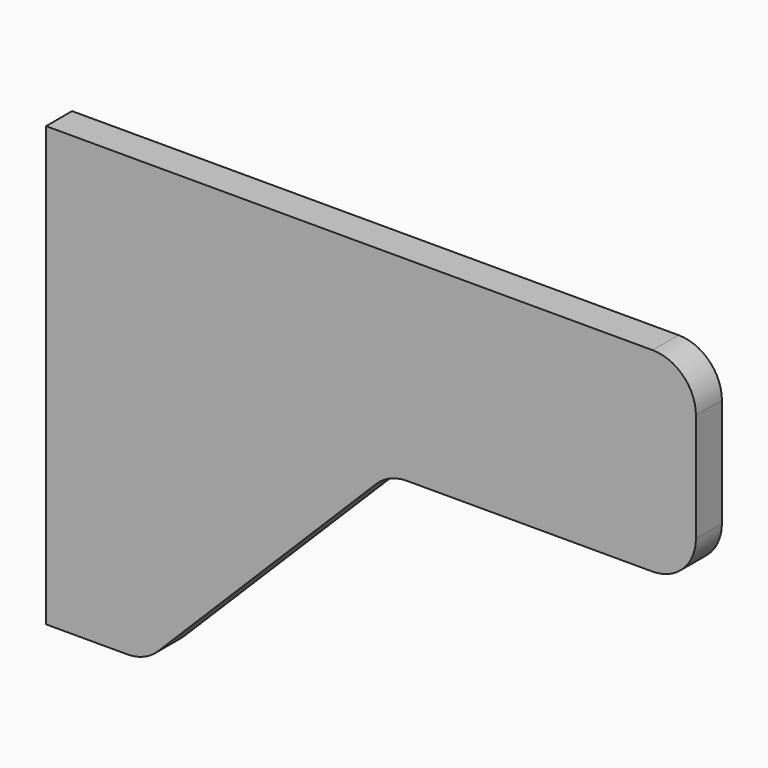
from build123d import *

# Parameters (mm, degrees)
F1_DEPTH = 6


with BuildPart() as f1:
    # F0 (on Front) → F1 (new body)
    with BuildSketch(Plane.XZ):
        with BuildLine():
            ThreePointArc((15, -81), (18.061467, -80.391036), (20.656854, -78.656854))
            Line((20.656854, -78.656854), (60.970563, -38.343146))
            ThreePointArc((60.970563, -38.343146), (63.56595, -36.608964), (66.627417, -36))
            Line((66.627417, -36), (112, -36))
            ThreePointArc((112, -36), (117.656854, -33.656854), (120, -28))
            Line((120, -28), (120, -8))
            ThreePointArc((120, -8), (117.656854, -2.343146), (112, 0))
            Line((112, 0), (0, 0))
            Line((0, 0), (0, -81))
            Line((0, -81), (15, -81))
        make_face()
    extrude(amount=F1_DEPTH)


solid = f1.part
